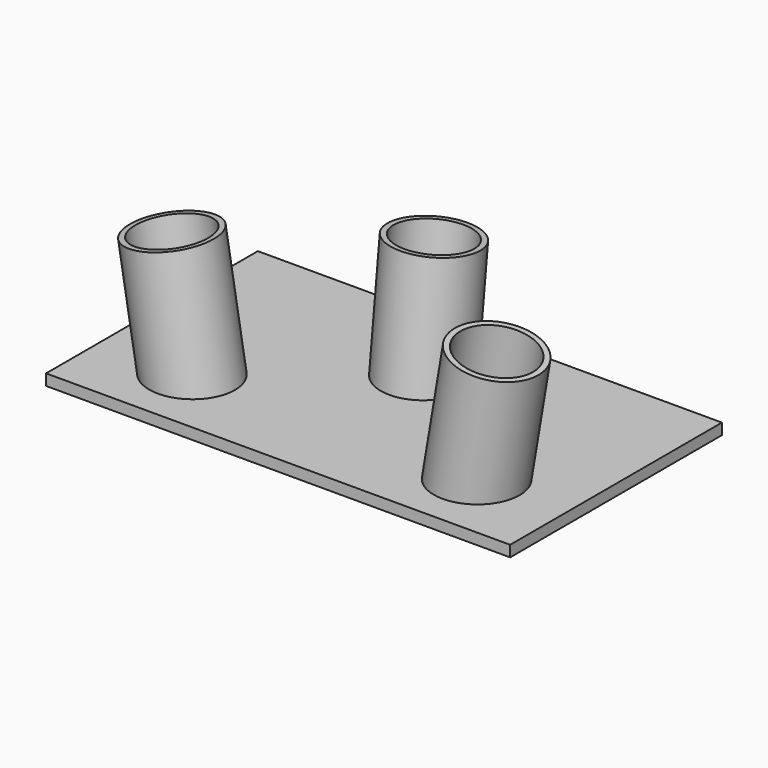
from build123d import *

# Parameters (mm, degrees)
F2_R      = 9.70750027
F2_R_2    = 8.43750027
F3_DEPTH  = 33.02
F4_DEPTH  = 50.8
F6_DEPTH  = 127
F8_R      = 9.70750027
F8_R_2    = 8.43750027
F9_DEPTH  = 33.02
F10_W     = 144.2738771439
F10_H     = 43.9907349646
F11_DEPTH = 381
F14_R     = 9.70750027
F14_R_2   = 8.43750027
F15_DEPTH = 25.4
F16_DEPTH = 50.8
F17_W     = 94.1894035786
F17_H     = 29.3832402676
F18_DEPTH = 127
F19_W     = 106.1688474409
F19_H     = 60.55200234
F20_DEPTH = 2.54


with BuildPart() as f3:
    # F2 (on line) → F3 (new body)
    with BuildSketch(Plane(origin=(0, 0, 0), x_dir=(0.9860251287, 0, 0.1665966554), z_dir=(0.1665966554, 0, -0.9860251287))):
        with Locations((-32.11030027, 38.1445123341)):
            Circle(F2_R)
        with Locations((-32.11030027, 38.1445123341)):
            Circle(F2_R_2, mode=Mode.SUBTRACT)
    extrude(amount=-F3_DEPTH)

    # F4 (add): a face of the model
    f4_faces = [f3.faces().sort_by_distance(p)[0] for p in [
        (-46.4636912241, -38.1445123341, 25.6375864152),
    ]]
    extrude(f4_faces, amount=-F4_DEPTH)

    # F5 (on Front) → F6 (cut, symmetric)
    with BuildSketch(Plane.XZ):
        Polygon((43.3516763151, 0), (0, 0), (-49.4034710573, 0), (-49.4034710573, -35.2993682027), (43.3516763151, -35.2993682027), align=None)
    extrude(amount=F6_DEPTH, both=True, mode=Mode.SUBTRACT)



with BuildPart() as f9:
    # F8 (on line) → F9 (new body)
    with BuildSketch(Plane(origin=(0, 0, 0), x_dir=(0.9860251287, 0, -0.1665966554), z_dir=(-0.1665966554, 0, -0.9860251287))):
        with Locations((32.11030027, 38.14450207)):
            Circle(F8_R)
        with Locations((32.11030027, 38.14450207)):
            Circle(F8_R_2, mode=Mode.SUBTRACT)
    extrude(amount=-F9_DEPTH)

    # F10 (on Front) → F11 (cut, symmetric)
    with BuildSketch(Plane.XZ):
        with Locations((2.6571601629, -21.9953674823)):
            Rectangle(F10_W, F10_H)
    extrude(amount=F11_DEPTH, both=True, mode=Mode.SUBTRACT)


with BuildPart() as f15:
    # F14 (on face) → F15 (new body)
    with BuildSketch(Plane(origin=(0, 0, 0), x_dir=(1, 0, 0), z_dir=(0, 0.1114689322, 0.9937679192))):
        with Locations((0, -12.55230027)):
            Circle(F14_R)
        with Locations((0, -12.55230027)):
            Circle(F14_R_2, mode=Mode.SUBTRACT)
    extrude(amount=F15_DEPTH)

    # F16 (add): a face of the model
    f16_faces = [f15.faces().sort_by_distance(p)[0] for p in [
        (-9.4329306992, -9.642762442, 26.6408966545),
    ]]
    extrude(f16_faces, amount=-F16_DEPTH)

    # F17 (on Right) → F18 (cut, symmetric)
    with BuildSketch(Plane.YZ):
        with Locations((-17.9154733196, -14.6916201338)):
            Rectangle(F17_W, F17_H)
    extrude(amount=F18_DEPTH, both=True, mode=Mode.SUBTRACT)


with BuildPart() as f3_1:
    add(f3.part)

    add(f9.part)  # F20 merges F9

    add(f15.part)  # F20 merges F15
    # F19 (on Top) → F20 (join)
    with BuildSketch(Plane.XY):
        with Locations((0, -23.92600117)):
            Rectangle(F19_W, F19_H)
    extrude(amount=-F20_DEPTH)


solid = f3_1.part
